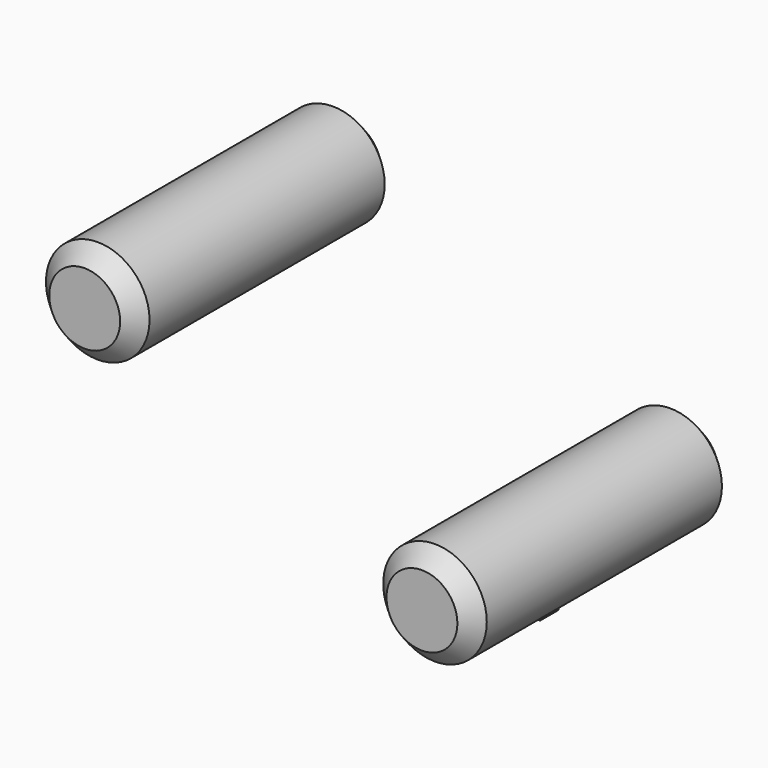
from build123d import *

# Parameters (mm, degrees)
F0_R     = 8.0536474421
F1_DEPTH = 50.8
F2_SIZE  = 2.54
F3_SIZE  = 2.54
F4_SIZE  = 2.54
F5_W     = 3.8523322437
F5_H     = 3.5559982061
F6_DEPTH = 9.144


with BuildPart() as f1:
    # F0 (on Front) → F1 (new body)
    with BuildSketch(Plane.XZ):
        with Locations((-52.4579174817, 24.2831893265)):
            Circle(F0_R)
    extrude(amount=F1_DEPTH)

    # F2
    f2_edges = [f1.edges().sort_by_distance(p)[0] for p in [
        (-60.511565, 0, 24.283189),
        (-60.511565, -50.8, 24.283189),
    ]]
    chamfer(f2_edges, length=F2_SIZE)


with BuildPart() as f1b:
    # F0 (on Front) → F1, piece 2 (new body)
    with BuildSketch(Plane.XZ):
        Circle(F0_R)
    extrude(amount=F1_DEPTH)

    # F3
    f3_edges = [f1b.edges().sort_by_distance(p)[0] for p in [
        (-8.053647, -50.8, 0),
    ]]
    chamfer(f3_edges, length=F3_SIZE)

    # F4
    f4_edges = [f1b.edges().sort_by_distance(p)[0] for p in [
        (-8.053647, 0, 0),
    ]]
    chamfer(f4_edges, length=F4_SIZE)

    # F5 (on Top) → F6 (join)
    with BuildSketch(Plane.XY):
        with Locations((0, -28.4480005503)):
            Rectangle(F5_W, F5_H)
    extrude(amount=-F6_DEPTH)


with BuildPart() as f7_1:
    # F7: copy of F1b
    add(f1b.part)


solid = Compound([f1.part, f1b.part, f7_1.part])
